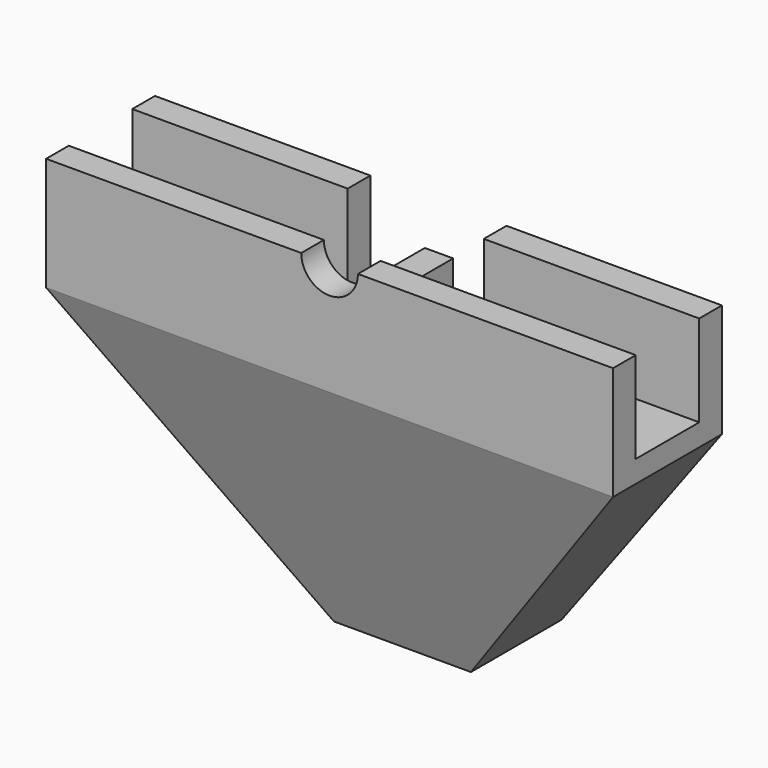
from build123d import *

# Parameters (mm, degrees)
F1_DEPTH      = 25
F1_DEPTH_BACK = 25
F3_DEPTH      = 16.5
F3_DEPTH_BACK = 16.5
F4_DEPTH      = 8.4392210885
F4_DEPTH_BACK = 16.5
F6_D          = 5
F8_START      = -25
F8_DEPTH      = 50


with BuildPart() as f1:
    # F0 (on Right) → F1 (new body, two sides)
    with BuildSketch(Plane.YZ) as f1_sk:
        Polygon((3.0001489873, 6.5), (2.9994625902, 16.5), (0.4994625902, 16.5), (0.4994625902, 8.4392210885), (-6.5005374098, 8.4392210885), (-6.5005374098, 16.5), (-8.9995463506, 16.5), (-9.0002327559, 6.5), (-0.9999372788, -16.5), (9.0000627212, -16.5), align=None)
    extrude(amount=F1_DEPTH)
    extrude(f1_sk.sketch, amount=-F1_DEPTH_BACK)

    # F2 (on Top) → F3 (cut, two sides)
    with BuildSketch(Plane.XY) as f3_sk:
        Polygon((-3.5, 9.0000627212), (-6, 9.0000627212), (-6, 0.4994625902), (-3.5, 0.4994625902), (-3.5, 3.0001489873), align=None)
        Polygon((3.5, 9.0000627212), (-3.5, 9.0000627212), (-3.5, 3.0001489873), (-3.5, 0.4994625902), (3.5, 0.4994625902), (3.5, 3.0001489873), align=None)
        Polygon((6, 9.0000627212), (3.5, 9.0000627212), (3.5, 3.0001489873), (3.5, 0.4994625902), (6, 0.4994625902), align=None)
    extrude(amount=F3_DEPTH, mode=Mode.SUBTRACT)
    extrude(f3_sk.sketch, amount=-F3_DEPTH_BACK, mode=Mode.SUBTRACT)

    # F2 (on Top) → F4 (join, two sides)
    with BuildSketch(Plane.XY) as f4_sk:
        Polygon((-3.5, 9.0000627212), (-6, 9.0000627212), (-6, 0.4994625902), (-3.5, 0.4994625902), (-3.5, 3.0001489873), align=None)
        Polygon((6, 9.0000627212), (3.5, 9.0000627212), (3.5, 3.0001489873), (3.5, 0.4994625902), (6, 0.4994625902), align=None)
    extrude(amount=F4_DEPTH)
    extrude(f4_sk.sketch, amount=-F4_DEPTH_BACK)

    # F6 (through all)
    with Locations(Plane(origin=(0, 0, 0), x_dir=(1, 0, 0), z_dir=(0, 1, 0))):
        with Locations((0, -16.5018886328)):
            Hole(F6_D / 2)

    # F7 (on Front) → F8 (intersect)
    with BuildSketch(Plane.XZ.offset(F8_START)):
        Polygon((6.0645495541, -16.5), (25, 6.5), (25, 17.2385324479), (-25, 17.2385324479), (-25, 6.5), (-6.0119125992, -16.5), align=None)
    extrude(amount=F8_DEPTH, mode=Mode.INTERSECT)


solid = f1.part
